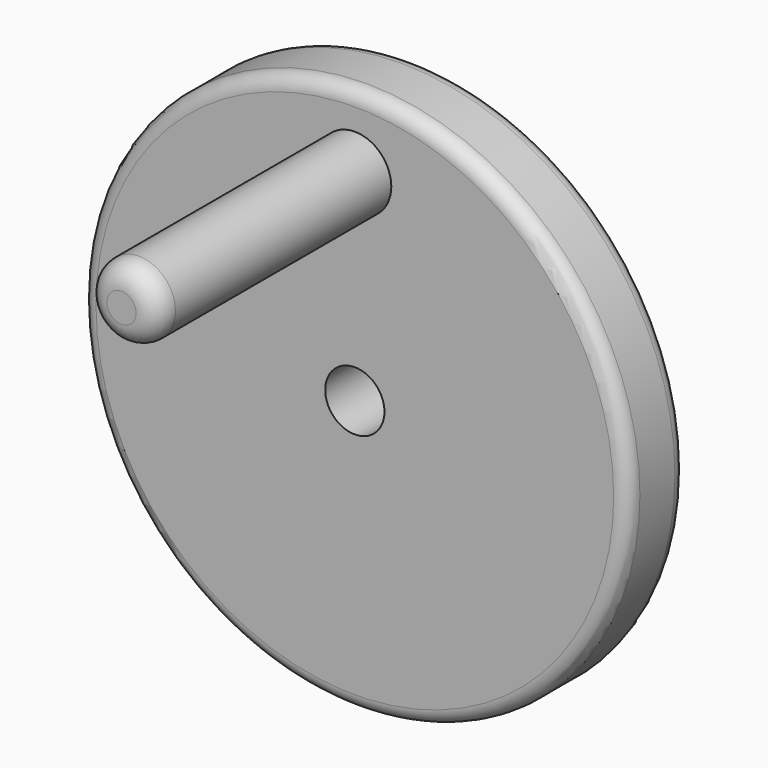
from build123d import *

# Parameters (mm, degrees)
F0_R     = 95.25
F0_R_2   = 10.31875
F0_R_3   = 12.7
F1_DEPTH = 25.4
F2_DEPTH = 127
F3_R     = 5.08
F4_R     = 7.62


with BuildPart() as f1:
    # F0 (on Front) → F1 (new body)
    with BuildSketch(Plane.XZ):
        Circle(F0_R)
        Circle(F0_R_2, mode=Mode.SUBTRACT)
        with Locations((0, 69.85)):
            Circle(F0_R_3, mode=Mode.SUBTRACT)
    extrude(amount=F1_DEPTH)

    # F0 (on Front) → F2 (join)
    with BuildSketch(Plane.XZ):
        with Locations((0, 69.85)):
            Circle(F0_R_3)
    extrude(amount=F2_DEPTH)

    # F3
    f3_edges = [f1.edges().sort_by_distance(p)[0] for p in [
        (-95.25, -25.4, 0),
        (-95.25, 0, 0),
    ]]
    fillet(f3_edges, radius=F3_R)

    # F4
    f4_edges = [f1.edges().sort_by_distance(p)[0] for p in [
        (-12.7, -127, 69.85),
    ]]
    fillet(f4_edges, radius=F4_R)


solid = f1.part
